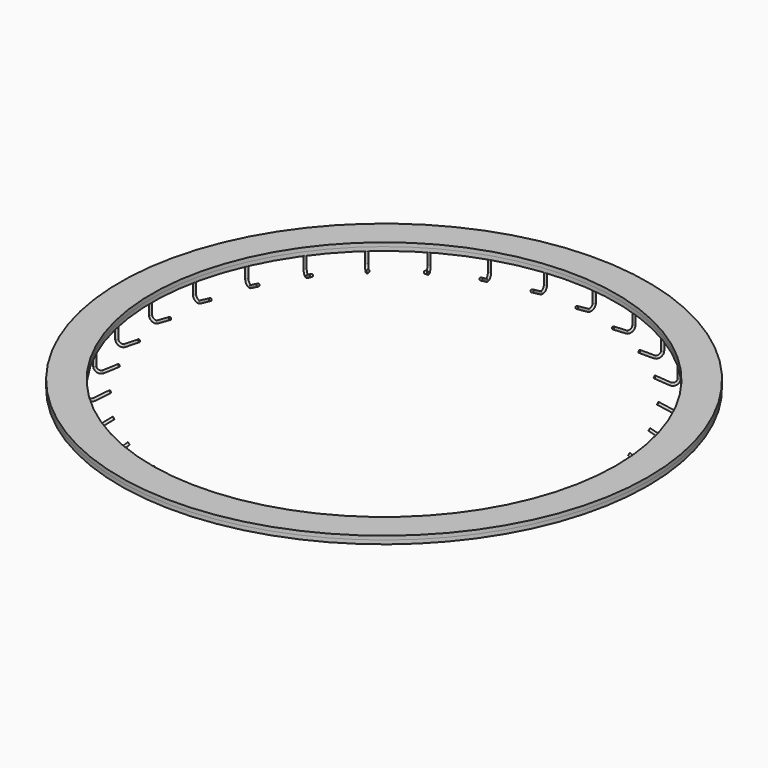
from build123d import *

# Parameters (mm, degrees)
F7_COUNT = 30


with BuildPart() as f1:
    # F0 (on Front) → F1 (revolve)
    with BuildSketch(Plane.XZ):
        Polygon((833, -12), (833, 0), (760, 0), (760, -5), (755, -5), (750, -5), (750, 0), (733, 0), (733, -12), align=None)
    revolve(axis=Axis((0, 0, 70.623405), (0, 0, 1)))


with BuildPart() as f2:
    # F0 (on Front) → F2 (revolve)
    with BuildSketch(Plane.XZ):
        with BuildLine():
            ThreePointArc((755, -5), (758.535534, -3.535534), (760, 0))
            ThreePointArc((760, 0), (758.535534, 3.535534), (755, 5))
            ThreePointArc((755, 5), (751.464466, 3.535534), (750, 0))
            ThreePointArc((750, 0), (751.464466, -3.535534), (755, -5))
        make_face()
    revolve(axis=Axis((0, 0, 70.623405), (0, 0, 1)))


with BuildPart() as f3:
    # F0 (on Front) → F3 (revolve)
    with BuildSketch(Plane.XZ):
        Polygon((760, 0), (833, 0), (833, 12), (733, 12), (733, 0), (750, 0), (750, 5), (755, 5), (760, 5), align=None)
    revolve(axis=Axis((0, 0, 70.623405), (0, 0, 1)))


with BuildPart() as f6:
    # F6: sweep along a path in F5
    with BuildLine(Plane.XZ) as f6_path:
        Line((737, -12), (737, -47))
        ThreePointArc((737, -47), (729.5, -59.990381), (714.5, -59.990381))
        Line((714.5, -59.990381), (675.528857, -37.490381))
    # F4 (on face) → F6 (sweep)
    with BuildSketch(Plane(origin=(0, 0, -12), x_dir=(1, 0, 0), z_dir=(0, 0, -1))):
        with BuildLine():
            ThreePointArc((733, 0), (737, -4), (741, 0))
            ThreePointArc((741, 0), (737, 4), (733, 0))
        make_face()
    sweep(path=f6_path.line)


with BuildPart() as f7_1:
    # F7: instance of F6
    add(f6.part.rotate(Axis((0, 0, 70.623405), (0, 0, 1)), 1 * 360 / F7_COUNT))


with BuildPart() as f7_2:
    # F7: instance of F6
    add(f6.part.rotate(Axis((0, 0, 70.623405), (0, 0, 1)), 2 * 360 / F7_COUNT))


with BuildPart() as f7_3:
    # F7: instance of F6
    add(f6.part.rotate(Axis((0, 0, 70.623405), (0, 0, 1)), 3 * 360 / F7_COUNT))


with BuildPart() as f7_4:
    # F7: instance of F6
    add(f6.part.rotate(Axis((0, 0, 70.623405), (0, 0, 1)), 4 * 360 / F7_COUNT))


with BuildPart() as f7_5:
    # F7: instance of F6
    add(f6.part.rotate(Axis((0, 0, 70.623405), (0, 0, 1)), 5 * 360 / F7_COUNT))


with BuildPart() as f7_6:
    # F7: instance of F6
    add(f6.part.rotate(Axis((0, 0, 70.623405), (0, 0, 1)), 6 * 360 / F7_COUNT))


with BuildPart() as f7_7:
    # F7: instance of F6
    add(f6.part.rotate(Axis((0, 0, 70.623405), (0, 0, 1)), 7 * 360 / F7_COUNT))


with BuildPart() as f7_8:
    # F7: instance of F6
    add(f6.part.rotate(Axis((0, 0, 70.623405), (0, 0, 1)), 8 * 360 / F7_COUNT))


with BuildPart() as f7_9:
    # F7: instance of F6
    add(f6.part.rotate(Axis((0, 0, 70.623405), (0, 0, 1)), 9 * 360 / F7_COUNT))


with BuildPart() as f7_10:
    # F7: instance of F6
    add(f6.part.rotate(Axis((0, 0, 70.623405), (0, 0, 1)), 10 * 360 / F7_COUNT))


with BuildPart() as f7_11:
    # F7: instance of F6
    add(f6.part.rotate(Axis((0, 0, 70.623405), (0, 0, 1)), 11 * 360 / F7_COUNT))


with BuildPart() as f7_12:
    # F7: instance of F6
    add(f6.part.rotate(Axis((0, 0, 70.623405), (0, 0, 1)), 12 * 360 / F7_COUNT))


with BuildPart() as f7_13:
    # F7: instance of F6
    add(f6.part.rotate(Axis((0, 0, 70.623405), (0, 0, 1)), 13 * 360 / F7_COUNT))


with BuildPart() as f7_14:
    # F7: instance of F6
    add(f6.part.rotate(Axis((0, 0, 70.623405), (0, 0, 1)), 14 * 360 / F7_COUNT))


with BuildPart() as f7_15:
    # F7: instance of F6
    add(f6.part.rotate(Axis((0, 0, 70.623405), (0, 0, 1)), 15 * 360 / F7_COUNT))


with BuildPart() as f7_16:
    # F7: instance of F6
    add(f6.part.rotate(Axis((0, 0, 70.623405), (0, 0, 1)), 16 * 360 / F7_COUNT))


with BuildPart() as f7_17:
    # F7: instance of F6
    add(f6.part.rotate(Axis((0, 0, 70.623405), (0, 0, 1)), 17 * 360 / F7_COUNT))


with BuildPart() as f7_18:
    # F7: instance of F6
    add(f6.part.rotate(Axis((0, 0, 70.623405), (0, 0, 1)), 18 * 360 / F7_COUNT))


with BuildPart() as f7_19:
    # F7: instance of F6
    add(f6.part.rotate(Axis((0, 0, 70.623405), (0, 0, 1)), 19 * 360 / F7_COUNT))


with BuildPart() as f7_20:
    # F7: instance of F6
    add(f6.part.rotate(Axis((0, 0, 70.623405), (0, 0, 1)), 20 * 360 / F7_COUNT))


with BuildPart() as f7_21:
    # F7: instance of F6
    add(f6.part.rotate(Axis((0, 0, 70.623405), (0, 0, 1)), 21 * 360 / F7_COUNT))


with BuildPart() as f7_22:
    # F7: instance of F6
    add(f6.part.rotate(Axis((0, 0, 70.623405), (0, 0, 1)), 22 * 360 / F7_COUNT))


with BuildPart() as f7_23:
    # F7: instance of F6
    add(f6.part.rotate(Axis((0, 0, 70.623405), (0, 0, 1)), 23 * 360 / F7_COUNT))


with BuildPart() as f7_24:
    # F7: instance of F6
    add(f6.part.rotate(Axis((0, 0, 70.623405), (0, 0, 1)), 24 * 360 / F7_COUNT))


with BuildPart() as f7_25:
    # F7: instance of F6
    add(f6.part.rotate(Axis((0, 0, 70.623405), (0, 0, 1)), 25 * 360 / F7_COUNT))


with BuildPart() as f7_26:
    # F7: instance of F6
    add(f6.part.rotate(Axis((0, 0, 70.623405), (0, 0, 1)), 26 * 360 / F7_COUNT))


with BuildPart() as f7_27:
    # F7: instance of F6
    add(f6.part.rotate(Axis((0, 0, 70.623405), (0, 0, 1)), 27 * 360 / F7_COUNT))


with BuildPart() as f7_28:
    # F7: instance of F6
    add(f6.part.rotate(Axis((0, 0, 70.623405), (0, 0, 1)), 28 * 360 / F7_COUNT))


with BuildPart() as f7_29:
    # F7: instance of F6
    add(f6.part.rotate(Axis((0, 0, 70.623405), (0, 0, 1)), 29 * 360 / F7_COUNT))


solid = Compound([f1.part, f2.part, f3.part, f6.part, f7_1.part, f7_2.part, f7_3.part, f7_4.part, f7_5.part, f7_6.part, f7_7.part, f7_8.part, f7_9.part, f7_10.part, f7_11.part, f7_12.part, f7_13.part, f7_14.part, f7_15.part, f7_16.part, f7_17.part, f7_18.part, f7_19.part, f7_20.part, f7_21.part, f7_22.part, f7_23.part, f7_24.part, f7_25.part, f7_26.part, f7_27.part, f7_28.part, f7_29.part])
